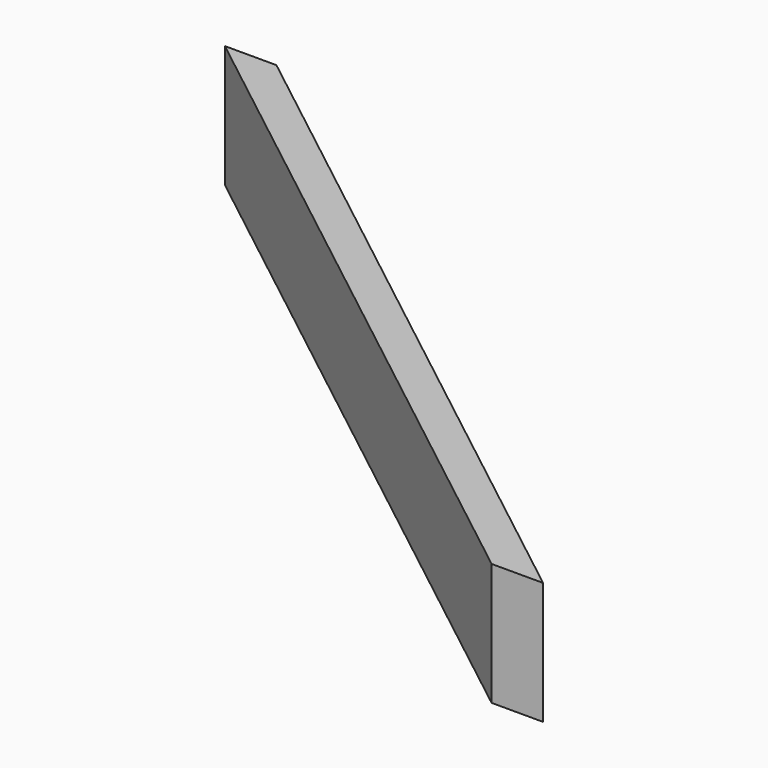
from build123d import *

# Parameters (mm, degrees)
F1_DEPTH = 241.3
F3_DEPTH = 241.3


with BuildPart() as f1:
    # F0 (on Top) → F1 (new body)
    with BuildSketch(Plane.XY):
        Polygon((1501.434905, 0), (0, 0), (1399.834905, -1092.2), (1501.434905, -1092.2), align=None)
    extrude(amount=F1_DEPTH)

    # F2 (on face) → F3 (cut)
    with BuildSketch(Plane.XY.offset(241.3)):
        Polygon((1501.434905, -1092.2), (1501.434905, 0), (101.6, 0), align=None)
    extrude(amount=-F3_DEPTH, mode=Mode.SUBTRACT)


solid = f1.part
